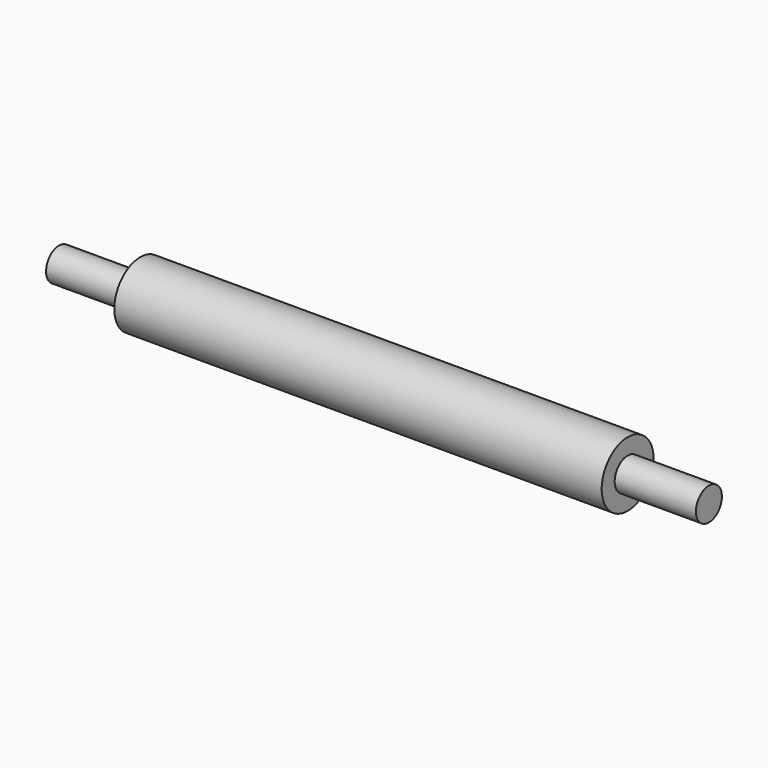
from build123d import *

# Parameters (mm, degrees)
F0_R     = 10
F1_DEPTH = 400
F3_R     = 20
F4_DEPTH = 150


with BuildPart() as f1:
    # F0 (on Right) → F1 (new body)
    with BuildSketch(Plane.YZ):
        Circle(F0_R)
    extrude(amount=-F1_DEPTH)

    # F3 (on offset) → F4 (join, symmetric)
    with BuildSketch(Plane.YZ.offset(-200)):
        Circle(F3_R)
    extrude(amount=F4_DEPTH, both=True)


solid = f1.part
